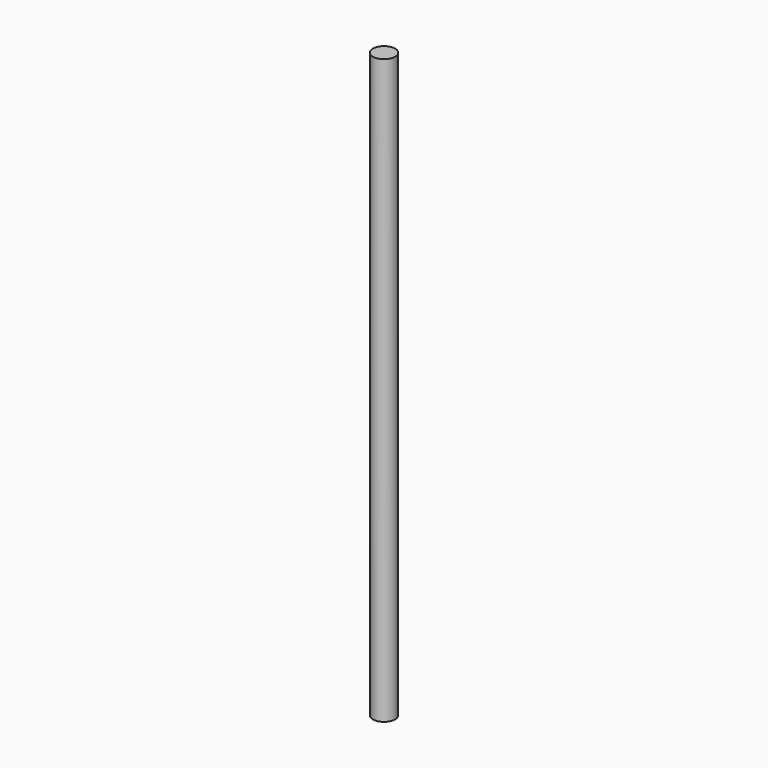
from build123d import *

# Parameters (mm, degrees)
SKETCH_R  = 4
PAD_DEPTH = 210


with BuildPart() as part:
    # Sketch → Pad (new body)
    with BuildSketch(Plane.XY):
        Circle(SKETCH_R)
    extrude(amount=PAD_DEPTH)


solid = part.part
